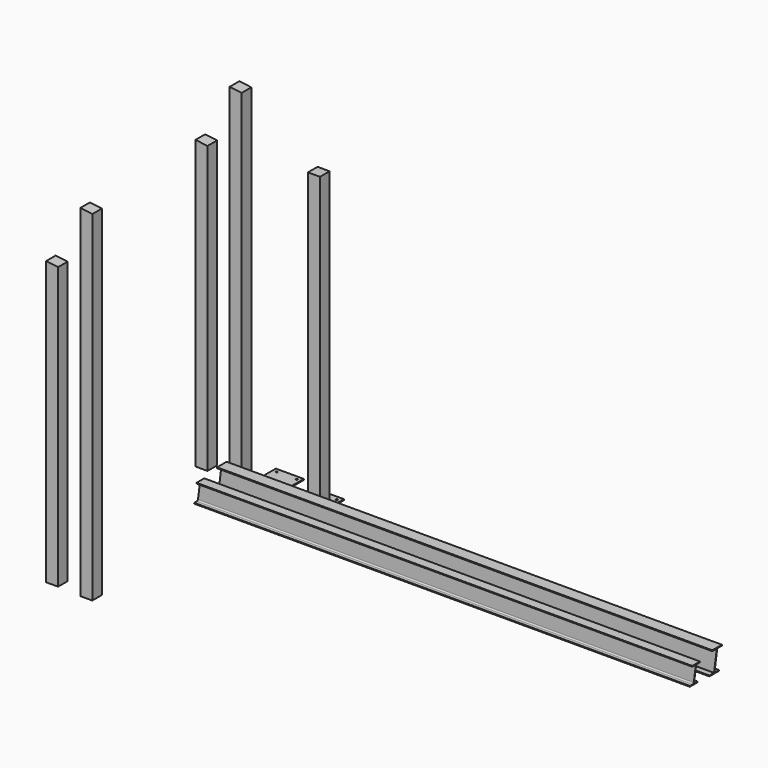
from build123d import *

# Parameters (mm, degrees)
F0_W      = 350
F0_H      = 350
F0_R      = 11
F0_H_2    = 250
F1_DEPTH  = 12
F3_DEPTH  = 150
F5_DEPTH  = 6227.0849
F7_DEPTH  = 120
F8_R      = 15
F10_DEPTH = 3616
F12_DEPTH = 150


with BuildPart() as f1:
    # F0 (on Top) → F1 (new body)
    with BuildSketch(Plane.XY):
        with Locations((112.805232, 113.198779)):
            Rectangle(F0_W, F0_H)
        with Locations((-12.194768, -11.801221)):
            Circle(F0_R, mode=Mode.SUBTRACT)
        with Locations((237.805232, -11.801221)):
            Circle(F0_R, mode=Mode.SUBTRACT)
        with Locations((-12.194768, 238.198779)):
            Circle(F0_R, mode=Mode.SUBTRACT)
        with Locations((237.805232, 238.198779)):
            Circle(F0_R, mode=Mode.SUBTRACT)
        with Locations((685.765374, 73.676325)):
            Rectangle(F0_W, F0_H_2)
        with Locations((560.765374, 28.676325)):
            Circle(F0_R, mode=Mode.SUBTRACT)
        with Locations((810.765374, 28.676325)):
            Circle(F0_R, mode=Mode.SUBTRACT)
        with Locations((560.765374, 148.676325)):
            Circle(F0_R, mode=Mode.SUBTRACT)
        with Locations((810.765374, 148.676325)):
            Circle(F0_R, mode=Mode.SUBTRACT)
    extrude(amount=F1_DEPTH)


with BuildPart() as f3:
    # F2 (on Front) → F3 (new body)
    with BuildSketch(Plane.XZ):
        Polygon((-715.75731, 3594.5041), (-715.75731, 0), (-565.75731, 0), (-565.75731, 3576.0894), align=None)
        Polygon((-288.05539, 4317.716167), (-288.05539, -13.373233), (-138.05539, -13.373233), (-138.05539, 4299.301567), align=None)
        Polygon((-2155.529943, 2377.021056), (-2155.529943, -1894.068344), (-2005.529943, -1894.068344), (-2005.529943, 2358.606456), align=None)
        Polygon((-2583.231863, 1653.808989), (-2583.231863, -1880.695111), (-2433.231863, -1880.695111), (-2433.231863, 1635.394289), align=None)
    extrude(amount=F3_DEPTH)


with BuildPart() as f5:
    # F4 (on Right) → F5 (new body)
    with BuildSketch(Plane.YZ):
        Polygon((-1067.008972, 206.873594), (-1067.008972, 197.073594), (-947.008972, 197.073594), (-947.008972, 206.873594), (-1003.908972, 206.873594), (-1003.908972, 211.873594), (-1003.908972, 427.273594), (-947.008972, 427.273594), (-947.008972, 437.073594), (-1067.008972, 437.073594), (-1067.008972, 427.273594), (-1010.108972, 427.273594), (-1010.108972, 211.873594), (-1010.108972, 206.873594), align=None)
        Polygon((-754.619122, 192.933125), (-754.619122, 182.233125), (-604.619122, 182.233125), (-604.619122, 192.933125), (-676.069122, 192.933125), (-676.069122, 471.533125), (-604.619122, 471.533125), (-604.619122, 482.233125), (-754.619122, 482.233125), (-754.619122, 471.533125), (-683.169122, 471.533125), (-683.169122, 192.933125), align=None)
    extrude(amount=F5_DEPTH)

    # F6 (on face) → F7 (cut)
    with BuildSketch(Plane.XZ.offset(1067.008972)):
        Polygon((0, 437.073594), (0, 197.073594), (30.9147, 437.073594), align=None)
        Polygon((6196.1702, 197.073594), (6227.0849, 197.073594), (6227.0849, 437.073594), align=None)
    extrude(amount=-F7_DEPTH, mode=Mode.SUBTRACT)

    # F8
    f8_edges = [f5.edges().sort_by_distance(p)[0] for p in [
        (3099.34745, -1010.108972, 206.873594),
        (3127.73745, -1010.108972, 427.273594),
        (3099.34745, -1003.908972, 206.873594),
        (3127.73745, -1003.908972, 427.273594),
    ]]
    fillet(f8_edges, radius=F8_R)

    # F11 (on face) → F12 (cut)
    with BuildSketch(Plane(origin=(0, -604.619122, 0), x_dir=(-1, 0, 0), z_dir=(0, 1, 0))):
        Polygon((-6190.2556, 182.208225), (-6225.771431, 471.533125), (-6227.0849, 471.533125), (-6227.0849, 182.208225), align=None)
        Polygon((-35.515831, 471.533125), (0, 182.208225), (0, 471.533125), align=None)
        Polygon((-35.515831, 471.533125), (0, 471.533125), (0, 482.233125), (-36.8293, 482.233125), align=None)
    extrude(amount=-F12_DEPTH, mode=Mode.SUBTRACT)


with BuildPart() as f10:
    # F9 (on face) → F10 (new body)
    with BuildSketch(Plane.XY.offset(12)):
        Polygon((760.765374, 98.676325), (685.765374, 98.676325), (610.765374, 98.676325), (610.765374, -51.323675), (760.765374, -51.323675), align=None)
    extrude(amount=F10_DEPTH)


solid = Compound([f1.part, f3.part, f5.part, f10.part])
